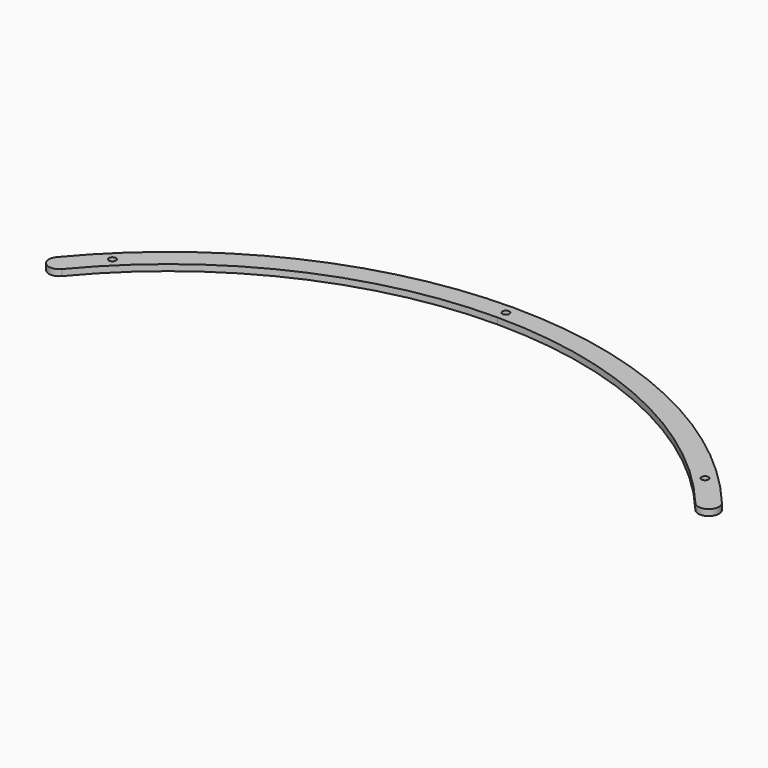
from build123d import *

# Parameters (mm, degrees)
PAD014_DEPTH         = 3
SKETCH055_R          = 1.7
POCKET019_DEPTH      = 364.282338
POCKET019_DEPTH_BACK = 367.282338


with BuildPart() as part:
    # Sketch052 → Pad014 (new body)
    with BuildSketch(Plane.XY):
        with BuildLine():
            ThreePointArc((152.959511, 127.101705), (84.480895, 180.040089), (0, 198.875477))
            Line((0, 198.875477), (0, 208.875477))
            ThreePointArc((160.650731, 133.492724), (88.728824, 189.092995), (0, 208.875477))
            ThreePointArc((152.959511, 127.101705), (160.000631, 126.451604), (160.650731, 133.492724))
        make_face()
    pad014 = extrude(amount=PAD014_DEPTH)

    # Sketch055 → Pocket019 (cut, two sides)
    with BuildSketch(Plane.XY) as pocket019_sk:
        with Locations((143.11, 145.205847)):
            Circle(SKETCH055_R)
        with BuildLine():
            Line((0, 202.175477), (0, 205.575477))
            ThreePointArc((0, 202.175477), (1.7, 203.875477), (0, 205.575477))
        make_face()
    pocket019 = extrude(amount=-POCKET019_DEPTH, mode=Mode.SUBTRACT) + extrude(pocket019_sk.sketch, amount=POCKET019_DEPTH_BACK, mode=Mode.SUBTRACT)

    # Mirrored019: Pad014, Pocket019 across Sketch052 V_Axis
    add(pad014.mirror(Plane(origin=(0, 0, 0), x_dir=(0, 0, 1), z_dir=(1, 0, 0))))
    add(pocket019.mirror(Plane(origin=(0, 0, 0), x_dir=(0, 0, 1), z_dir=(1, 0, 0))), mode=Mode.SUBTRACT)


solid = part.part
